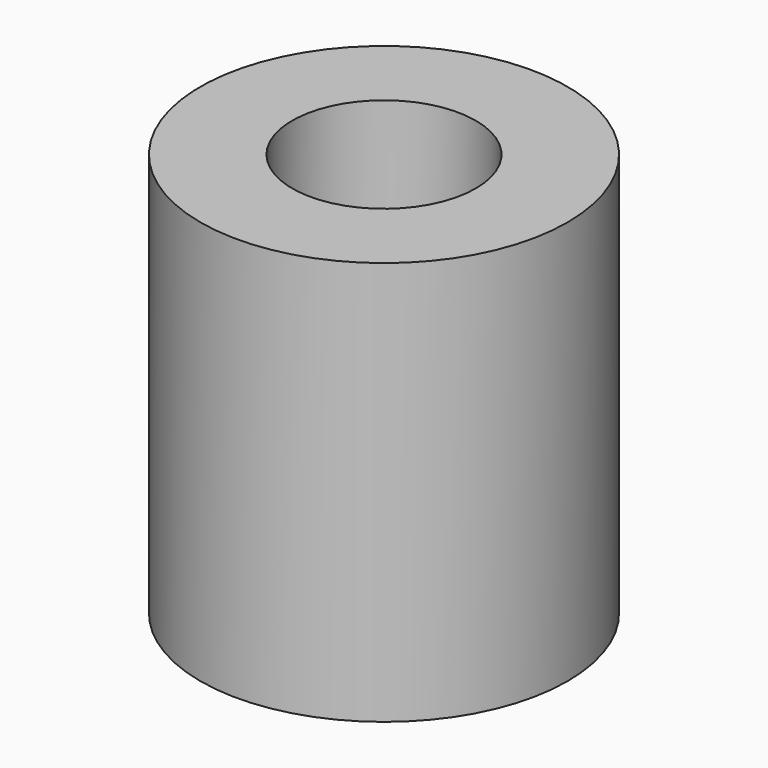
from build123d import *

# Parameters (mm, degrees)
F0_R     = 3.81
F0_R_2   = 1.905
F1_DEPTH = 4.191
F2_R     = 1.9304
F3_DEPTH = 0.8255


with BuildPart() as f1:
    # F0 (on Top) → F1 (new body, symmetric)
    with BuildSketch(Plane.XY):
        Circle(F0_R)
        Circle(F0_R_2, mode=Mode.SUBTRACT)
    extrude(amount=F1_DEPTH, both=True)

    # F2 (on Top) → F3 (join, symmetric)
    with BuildSketch(Plane.XY):
        Circle(F2_R)
    extrude(amount=F3_DEPTH, both=True)


solid = f1.part
